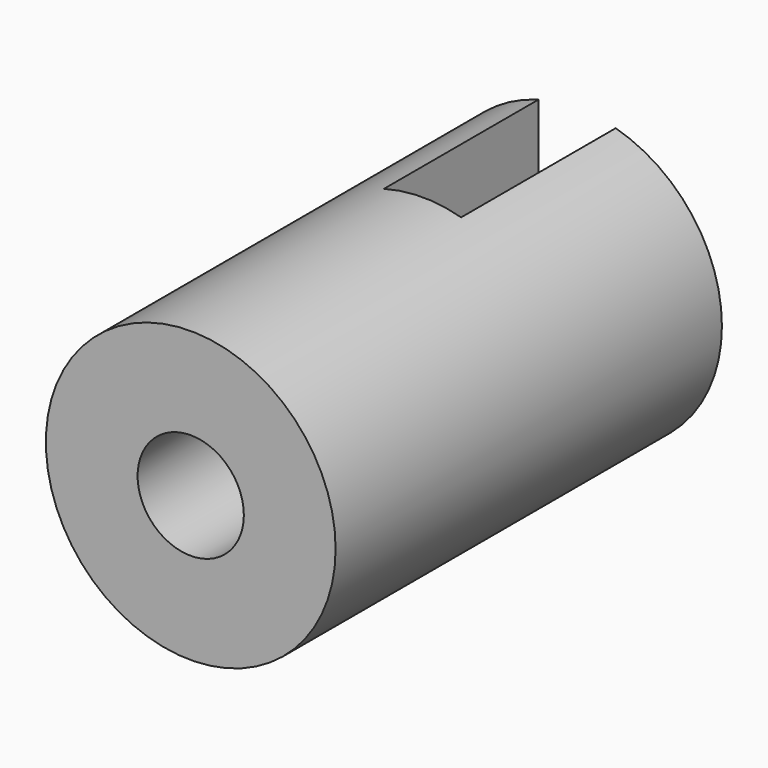
from build123d import *

# Parameters (mm, degrees)
F0_R     = 7.5
F1_DEPTH = 25
F2_R     = 2.75
F3_DEPTH = 10
F4_W     = 4
F4_H     = 15
F5_DEPTH = 10


with BuildPart() as f1:
    # F0 (on Front) → F1 (new body)
    with BuildSketch(Plane.XZ):
        Circle(F0_R)
    extrude(amount=F1_DEPTH)

    # F2 (on face) → F3 (cut)
    with BuildSketch(Plane.XZ.offset(25)):
        Circle(F2_R)
    extrude(amount=-F3_DEPTH, mode=Mode.SUBTRACT)

    # F4 (on face) → F5 (cut)
    with BuildSketch(Plane(origin=(0, 0, 0), x_dir=(-1, 0, 0), z_dir=(0, 1, 0))):
        Rectangle(F4_W, F4_H)
    extrude(amount=-F5_DEPTH, mode=Mode.SUBTRACT)


solid = f1.part
